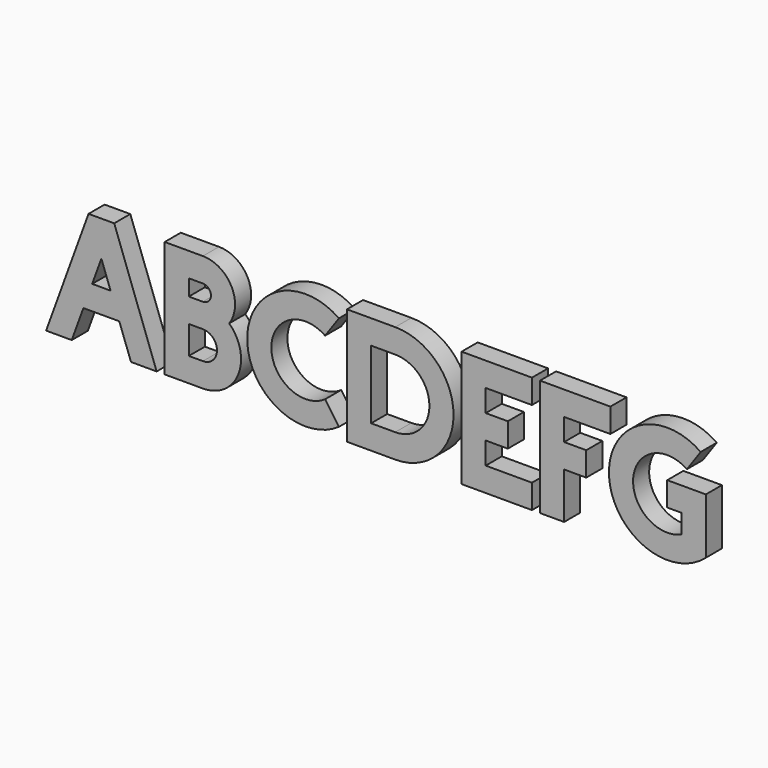
from build123d import *

# Parameters (mm, degrees)
F1_DEPTH = 25


with BuildPart() as f1:
    # F0 (on Front) → F1 (new body)
    with BuildSketch(Plane.XZ):
        Polygon((-126.326161, -46.686988), (-179.101845, -191.686988), (-147.176511, -191.686988), (-132.686629, -151.876363), (-88.040359, -151.876363), (-73.550477, -191.686988), (-41.625144, -191.686988), (-94.400827, -46.686988), align=None)
        Polygon((-98.959466, -121.876363), (-121.767522, -121.876363), (-110.363494, -90.544054), align=None, mode=Mode.SUBTRACT)
        with BuildLine():
            Line((15.874856, -46.686988), (-31.625144, -46.686988))
            Line((-31.625144, -46.686988), (-31.625144, -191.686988))
            Line((-31.625144, -191.686988), (15.874856, -191.686988))
            ThreePointArc((15.874856, -191.686988), (59.993644, -161.78763), (48.570393, -109.730466))
            ThreePointArc((48.570393, -109.730466), (51.383582, -68.271493), (15.874856, -46.686988))
        make_face()
        with BuildLine():
            Line((-1.625144, -126.686988), (15.874856, -126.686988))
            ThreePointArc((15.874856, -126.686988), (33.374856, -144.186988), (15.874856, -161.686988))
            Line((15.874856, -161.686988), (-1.625144, -161.686988))
            Line((-1.625144, -161.686988), (-1.625144, -126.686988))
        make_face(mode=Mode.SUBTRACT)
        with BuildLine():
            Line((-1.625144, -76.686988), (15.874856, -76.686988))
            ThreePointArc((15.874856, -76.686988), (25.874856, -86.686988), (15.874856, -96.686988))
            Line((15.874856, -96.686988), (-1.625144, -96.686988))
            Line((-1.625144, -96.686988), (-1.625144, -76.686988))
        make_face(mode=Mode.SUBTRACT)
        with BuildLine():
            Line((167.825363, -84.373026), (185.032656, -59.798465))
            ThreePointArc((185.032656, -59.798465), (70.948365, -119.186988), (185.032656, -178.575511))
            Line((185.032656, -178.575511), (167.825363, -154.00095))
            ThreePointArc((167.825363, -154.00095), (100.948365, -119.186988), (167.825363, -84.373026))
        make_face()
        with BuildLine():
            Line((255.032656, -46.686988), (195.032656, -46.686988))
            Line((195.032656, -46.686988), (195.032656, -191.686988))
            Line((195.032656, -191.686988), (255.032656, -191.686988))
            ThreePointArc((255.032656, -191.686988), (327.532656, -119.186988), (255.032656, -46.686988))
        make_face()
        with BuildLine():
            Line((225.032656, -76.686988), (255.032656, -76.686988))
            ThreePointArc((255.032656, -76.686988), (297.532656, -119.186988), (255.032656, -161.686988))
            Line((255.032656, -161.686988), (225.032656, -161.686988))
            Line((225.032656, -161.686988), (225.032656, -76.686988))
        make_face(mode=Mode.SUBTRACT)
        Polygon((425.032656, -46.686988), (337.532656, -46.686988), (337.532656, -191.686988), (425.032656, -191.686988), (425.032656, -161.686988), (395.032656, -161.686988), (367.532656, -161.686988), (367.532656, -134.186988), (395.032656, -134.186988), (395.032656, -104.186988), (367.532656, -104.186988), (367.532656, -76.686988), (395.032656, -76.686988), (425.032656, -76.686988), align=None)
        Polygon((522.532656, -46.686988), (435.032656, -46.686988), (435.032656, -191.686988), (465.032656, -191.686988), (465.032656, -161.686988), (465.032656, -134.186988), (492.532656, -134.186988), (492.532656, -104.186988), (465.032656, -104.186988), (465.032656, -76.686988), (492.532656, -76.686988), (522.532656, -76.686988), align=None)
        with BuildLine():
            Line((617.620333, -84.373026), (634.827626, -59.798465))
            ThreePointArc((634.827626, -59.798465), (520.857706, -123.257703), (641.22398, -173.538692))
            Line((641.22398, -173.538692), (641.22398, -104.186988))
            Line((641.22398, -104.186988), (593.243334, -104.186988))
            Line((593.243334, -104.186988), (593.243334, -134.186988))
            Line((593.243334, -134.186988), (611.22398, -134.186988))
            Line((611.22398, -134.186988), (611.22398, -157.696031))
            ThreePointArc((611.22398, -157.696031), (550.90413, -115.493515), (617.620333, -84.373026))
        make_face()
    extrude(amount=F1_DEPTH)


solid = f1.part
